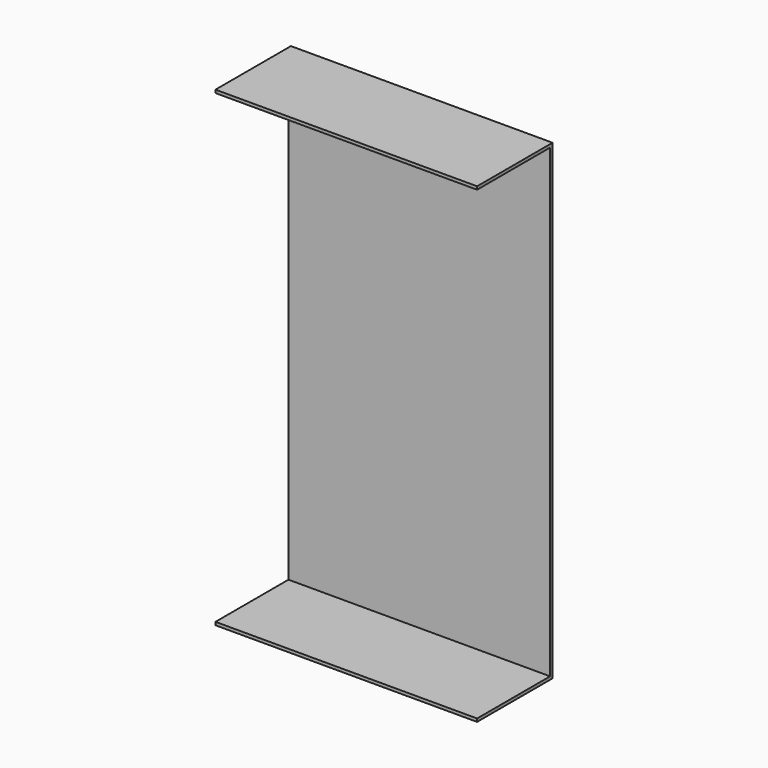
from build123d import *

# Parameters (mm, degrees)
F0_W     = 172
F0_H     = 306
F1_DEPTH = 2
F0_H_2   = 2
F2_DEPTH = 62
F3_DEPTH = 62


with BuildPart() as f1:
    # F0 (on Front) → F1 (new body)
    with BuildSketch(Plane.XZ):
        Rectangle(F0_W, F0_H)
    extrude(amount=F1_DEPTH)

    # F0 (on Front) → F2 (join)
    with BuildSketch(Plane.XZ):
        with Locations((0, 154)):
            Rectangle(F0_W, F0_H_2)
    extrude(amount=F2_DEPTH)

    # F0 (on Front) → F3 (join)
    with BuildSketch(Plane.XZ):
        with Locations((0, -154)):
            Rectangle(F0_W, F0_H_2)
    extrude(amount=F3_DEPTH)


solid = f1.part
